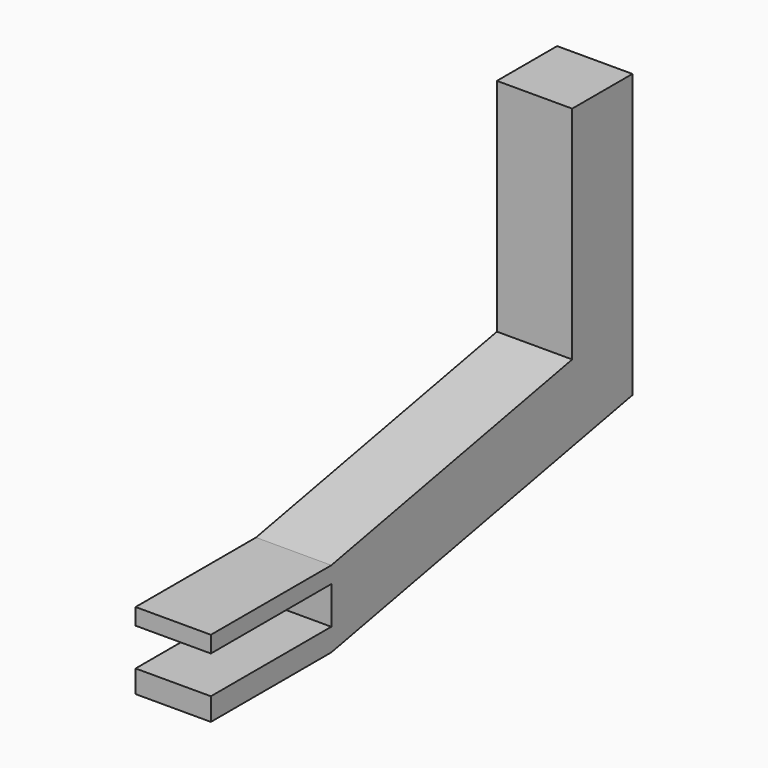
from build123d import *

# Parameters (mm, degrees)
F1_DEPTH = 5


with BuildPart() as f1:
    # F0 (on Right) → F1 (new body, symmetric)
    with BuildSketch(Plane.YZ):
        Polygon((0, 2.188883), (0, 0), (20, 0), (20, -5), (0, -5), (0, -8), (20, -8), (70, 1.763896), (70, 39.33065), (60, 39.33065), (60, 10), (20, 2.188883), align=None)
    extrude(amount=F1_DEPTH, both=True)


solid = f1.part
